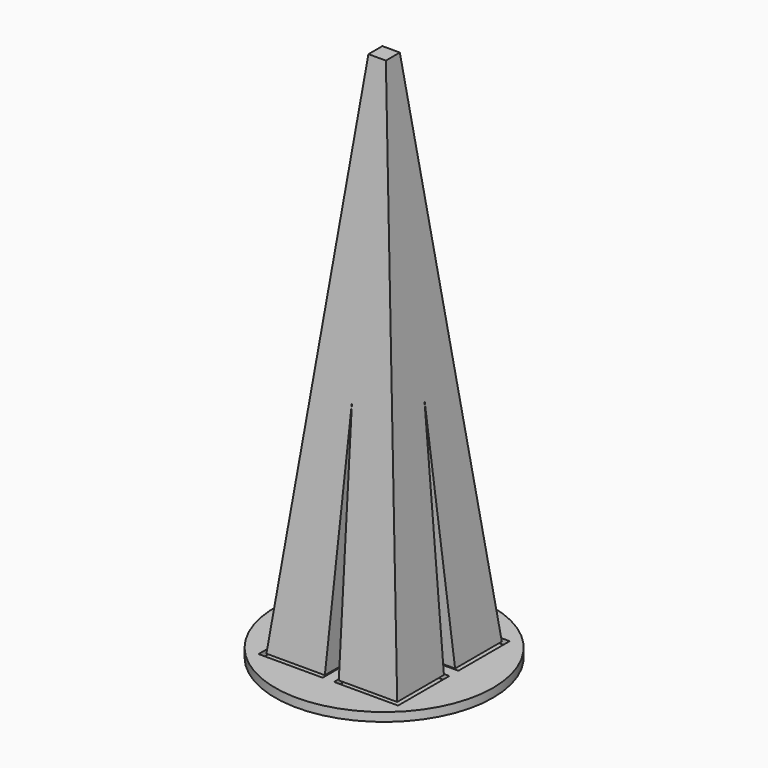
from build123d import *

# Parameters (mm, degrees)
F0_R      = 15.875
F1_DEPTH  = 1.27
F2_W      = 8.509
F2_H      = 8.509
F4_W      = 2.54
F4_H      = 2.54
F5_FACE_W = 2.54
F5_FACE_H = 2.54
F9_W      = 9.3345
F9_H      = 9.3345
F10_DEPTH = 0.762
F11_R     = 2.921
F12_DEPTH = 3.81


with BuildPart() as f1:
    # F0 (on Top) → F1 (new body)
    with BuildSketch(Plane.XY):
        Circle(F0_R)
    extrude(amount=-F1_DEPTH)



with BuildPart() as f5:
    # F2 (on Top) → F5 section 0
    with BuildSketch(Plane.XY):
        with Locations((-5.2705, 5.2705)):
            Rectangle(F2_W, F2_H)
    # F4 (on offset) → F5 section 1
    with BuildSketch(Plane.XY.offset(76.2)):
        Rectangle(F4_W, F4_H)
    loft()


with BuildPart() as f1_1:
    add(f1.part)

    add(f5.part)  # F6 merges F5
    # F2 (on Top) → F6 section 0
    with BuildSketch(Plane.XY):
        with Locations((5.2705, 5.2705)):
            Rectangle(F2_W, F2_H)
    # F5_face (on face) → F6 section 1
    with BuildSketch(Plane.XY.offset(76.2)):
        Rectangle(F5_FACE_W, F5_FACE_H)
    loft()

    # F2 (on Top) → F7 section 0
    with BuildSketch(Plane.XY):
        with Locations((-5.2705, -5.2705)):
            Rectangle(F2_W, F2_H)
    # F5_face (on face) → F7 section 1
    with BuildSketch(Plane.XY.offset(76.2)):
        Rectangle(F5_FACE_W, F5_FACE_H)
    loft()

    # F2 (on Top) → F8 section 0
    with BuildSketch(Plane.XY):
        with Locations((5.2705, -5.2705)):
            Rectangle(F2_W, F2_H)
    # F5_face (on face) → F8 section 1
    with BuildSketch(Plane.XY.offset(76.2)):
        Rectangle(F5_FACE_W, F5_FACE_H)
    loft()

    # F9 (on face) → F10 (cut)
    with BuildSketch(Plane.XY):
        with Locations((5.49275, 5.49275)):
            Rectangle(F9_W, F9_H)
        with Locations((-5.49275, 5.49275)):
            Rectangle(F9_W, F9_H)
        with Locations((5.49275, -5.49275)):
            Rectangle(F9_W, F9_H)
        with Locations((-5.49275, -5.49275)):
            Rectangle(F9_W, F9_H)
    extrude(amount=-F10_DEPTH, mode=Mode.SUBTRACT)

    # F11 (on face) → F12 (cut)
    with BuildSketch(Plane(origin=(0, 0, -1.27), x_dir=(1, 0, 0), z_dir=(0, 0, -1))):
        Circle(F11_R)
    extrude(amount=-F12_DEPTH, mode=Mode.SUBTRACT)


solid = f1_1.part
